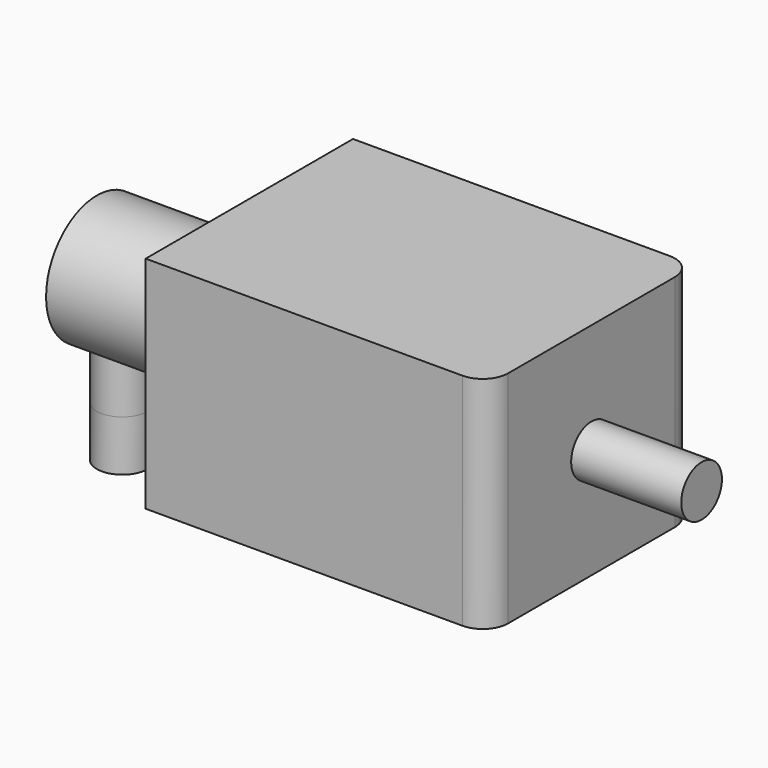
from build123d import *

# Parameters (mm, degrees)
F0_W          = 20.2
F0_H          = 15.3
F1_DEPTH      = 13
F2_R          = 1.5
F3_R          = 3.75
F4_DEPTH      = 9
F5_R          = 1.5
F6_DEPTH      = 6.5
F7_R          = 1.5
F8_DEPTH      = 5
F8_DEPTH_BACK = 3


with BuildPart() as f1:
    # F0 (on Top) → F1 (new body)
    with BuildSketch(Plane.XY):
        Rectangle(F0_W, F0_H)
    extrude(amount=F1_DEPTH)

    # F2
    f2_edges = [f1.edges().sort_by_distance(p)[0] for p in [
        (10.1, -7.65, 6.5),
        (10.1, 7.65, 6.5),
    ]]
    fillet(f2_edges, radius=F2_R)

    # F3 (on face) → F4 (join)
    with BuildSketch(Plane(origin=(-10.1, 0, 0), x_dir=(0, -1, 0), z_dir=(-1, 0, 0))):
        with Locations((0, 6.5)):
            Circle(F3_R)
    extrude(amount=F4_DEPTH)

    # F5 (on face) → F6 (join)
    with BuildSketch(Plane.YZ.offset(10.1)):
        with Locations((0, 6.5)):
            Circle(F5_R)
    extrude(amount=F6_DEPTH)

    # F7 (on Top) → F8 (join, two sides)
    with BuildSketch(Plane.XY) as f8_sk:
        with Locations((-17.6, 0)):
            Circle(F7_R)
        with Locations((-11.7, 0)):
            Circle(F7_R)
    extrude(amount=F8_DEPTH)
    extrude(f8_sk.sketch, amount=-F8_DEPTH_BACK)


solid = f1.part
